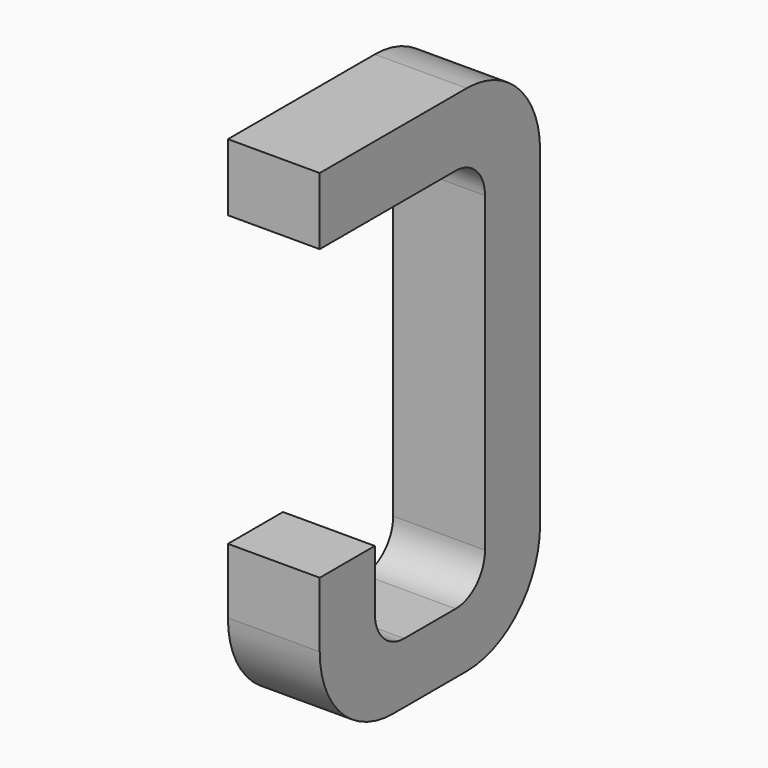
from build123d import *

# Parameters (mm, degrees)
BOX023_W     = 0.5
BOX023_H     = 1.5
BOX023_DEPTH = 2.795
FILLET035_R  = 0.5
FILLET038_R  = 0.5
FILLET034_R  = 0.5
BOX014_W     = 0.75
BOX014_H     = 2.1
BOX014_DEPTH = 1
FILLET036_R  = 0.2
FILLET039_R  = 0.2
FILLET030_R  = 0.2
FILLET033_R  = 0.2
BOX024_W     = 1
BOX024_H     = 1.575
BOX024_DEPTH = 3


with BuildPart() as part:
    # Box023 → Box023 (join)
    with BuildSketch(Plane(origin=(-0.25, 11.125, 0), x_dir=(1, 0, 0), z_dir=(0, 0, 1))):
        with Locations((0.25, 0.75)):
            Rectangle(BOX023_W, BOX023_H)
    extrude(amount=BOX023_DEPTH)

    # Fillet035
    fillet035_edges = [part.edges().sort_by_distance(p)[0] for p in [
        (0, 12.625, 0),
    ]]
    fillet(fillet035_edges, radius=FILLET035_R)

    # Fillet038
    fillet038_edges = [part.edges().sort_by_distance(p)[0] for p in [
        (0, 12.625, 2.795),
    ]]
    fillet(fillet038_edges, radius=FILLET038_R)

    # Fillet034
    fillet034_edges = [part.edges().sort_by_distance(p)[0] for p in [
        (0, 11.125, 0),
    ]]
    fillet(fillet034_edges, radius=FILLET034_R)

    # Box014 → Box014 (cut)
    with BuildSketch(Plane(origin=(-0.5, 11.5, 0.33), x_dir=(0, 1, 0), z_dir=(1, 0, 0))):
        with Locations((0.375, 1.05)):
            Rectangle(BOX014_W, BOX014_H)
    extrude(amount=BOX014_DEPTH, mode=Mode.SUBTRACT)

    # Fillet036
    fillet036_edges = [part.edges().sort_by_distance(p)[0] for p in [
        (0, 11.5, 0.33),
    ]]
    fillet(fillet036_edges, radius=FILLET036_R)

    # Fillet039
    fillet039_edges = [part.edges().sort_by_distance(p)[0] for p in [
        (0, 12.25, 0.33),
    ]]
    fillet(fillet039_edges, radius=FILLET039_R)

    # Fillet030
    fillet030_edges = [part.edges().sort_by_distance(p)[0] for p in [
        (0, 11.5, 2.43),
    ]]
    fillet(fillet030_edges, radius=FILLET030_R)

    # Fillet033
    fillet033_edges = [part.edges().sort_by_distance(p)[0] for p in [
        (0, 12.25, 2.43),
    ]]
    fillet(fillet033_edges, radius=FILLET033_R)

    # Box024 → Box024 (cut)
    with BuildSketch(Plane(origin=(-1, 11, 0.855), x_dir=(0, 1, 0), z_dir=(1, 0, 0))):
        with Locations((0.5, 0.7875)):
            Rectangle(BOX024_W, BOX024_H)
    extrude(amount=BOX024_DEPTH, mode=Mode.SUBTRACT)


with BuildPart() as part_1:
    # Body005 placement: moved
    add(part.part.moved(Location((5.08, 0, 0))))


solid = part_1.part
